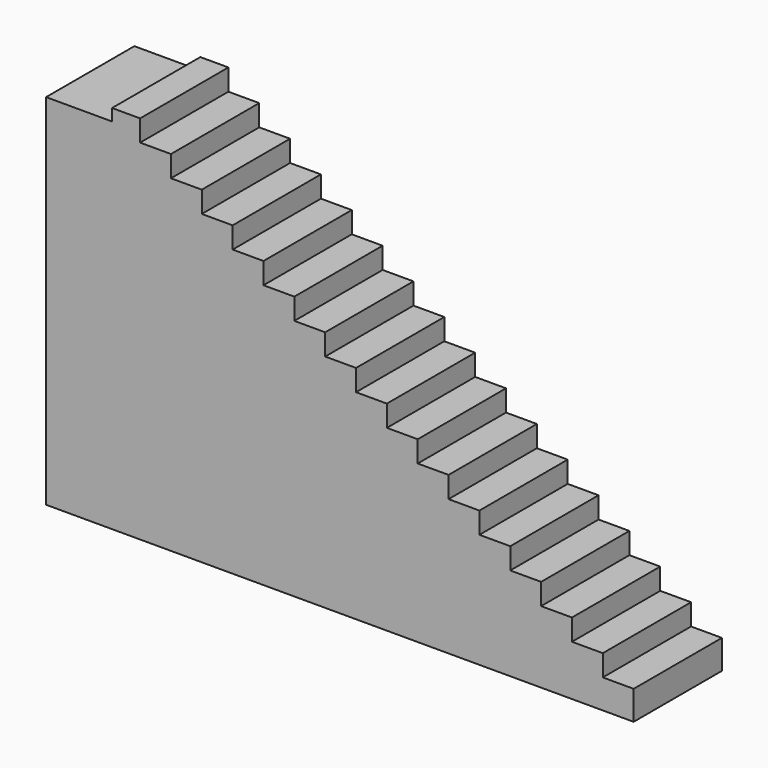
from build123d import *

# Parameters (mm, degrees)
F1_DEPTH = 93


with BuildPart() as f1:
    # F0 (on Front) → F1 (new body)
    with BuildSketch(Plane.XZ):
        Polygon((-495.254785, 0), (0, 0), (0, 9), (0, 24.5), (-26, 24.5), (-26, 42.5), (-52, 42.5), (-52, 60.5), (-78, 60.5), (-78, 78.5), (-104, 78.5), (-104, 96.5), (-130, 96.5), (-130, 114.5), (-156, 114.5), (-156, 132.5), (-182, 132.5), (-182, 150.5), (-208, 150.5), (-208, 168.5), (-234, 168.5), (-234, 186.5), (-260, 186.5), (-260, 204.5), (-286, 204.5), (-286, 222.5), (-312, 222.5), (-312, 240.5), (-338, 240.5), (-338, 258.5), (-364, 258.5), (-364, 276.5), (-390, 276.5), (-390, 294.5), (-416, 294.5), (-416, 312.5), (-439.650076, 312.5), (-439.650076, 302.5), (-495.254785, 302.5), align=None)
        Polygon((-495.254785, 0), (0, 0), (0, 9), (0, 24.5), (-26, 24.5), (-26, 42.5), (-52, 42.5), (-52, 60.5), (-78, 60.5), (-78, 78.5), (-104, 78.5), (-104, 96.5), (-130, 96.5), (-130, 114.5), (-156, 114.5), (-156, 132.5), (-182, 132.5), (-182, 150.5), (-208, 150.5), (-208, 168.5), (-234, 168.5), (-234, 186.5), (-260, 186.5), (-260, 204.5), (-286, 204.5), (-286, 222.5), (-312, 222.5), (-312, 240.5), (-338, 240.5), (-338, 258.5), (-364, 258.5), (-364, 276.5), (-390, 276.5), (-390, 294.5), (-416, 294.5), (-416, 312.5), (-439.650076, 312.5), (-439.650076, 302.5), (-495.254785, 302.5), align=None)
    extrude(amount=F1_DEPTH)


solid = f1.part
